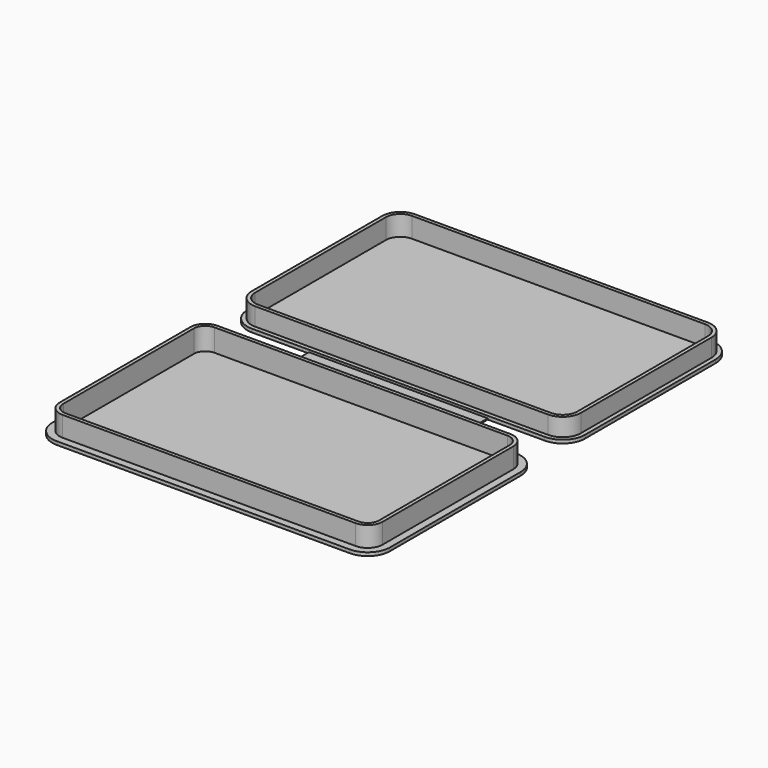
from build123d import *

# Parameters (mm, degrees)
F1_DEPTH = 1.5
F2_R     = 10
F6_DEPTH = 8
F7_DEPTH = 1
F8_W     = 80
F8_H     = 16
F9_DEPTH = 1


with BuildPart() as f1:
    # F0 (on Top) → F1 (new body)
    with BuildSketch(Plane.XY):
        Polygon((40, 0), (-40, 0), (-40, -8), (-75.5, -8), (-75.5, -101), (75.5, -101), (75.5, -8), (40, -8), align=None)
    extrude(amount=F1_DEPTH)

    # F2
    f2_edges = [f1.edges().sort_by_distance(p)[0] for p in [
        (-75.5, -8, 0.75),
        (-75.5, -101, 0.75),
        (75.5, -101, 0.75),
        (75.5, -8, 0.75),
    ]]
    fillet(f2_edges, radius=F2_R)

    # F3: F1 across face


with BuildPart() as f1_1:
    add(f1.part)
    add(f1.part.mirror(Plane(origin=(0, 0, 0.75), x_dir=(-1, 0, 0), z_dir=(0, 1, 0))))

    # F5 (on face) → F6 (join)
    with BuildSketch(Plane.XY.offset(1.5)):
        with BuildLine():
            Line((65.5, -11.3), (40, -11.3))
            Line((40, -11.3), (-40, -11.3))
            Line((-40, -11.3), (-65.5, -11.3))
            ThreePointArc((-65.5, -11.3), (-70.2376154339, -13.2623845661), (-72.2, -18))
            Line((-72.2, -18), (-72.2, -91))
            ThreePointArc((-72.2, -91), (-70.2376154339, -95.7376154339), (-65.5, -97.7))
            Line((-65.5, -97.7), (65.5, -97.7))
            ThreePointArc((65.5, -97.7), (70.2376154339, -95.7376154339), (72.2, -91))
            Line((72.2, -91), (72.2, -18))
            ThreePointArc((72.2, -18), (70.2376154339, -13.2623845661), (65.5, -11.3))
        make_face()
        with BuildLine():
            Line((-70.6, -91), (-70.6, -18))
            ThreePointArc((-70.6, -18), (-69.1062445841, -14.3937554159), (-65.5, -12.9))
            Line((-65.5, -12.9), (-40, -12.9))
            Line((-40, -12.9), (40, -12.9))
            Line((40, -12.9), (65.5, -12.9))
            ThreePointArc((65.5, -12.9), (69.1062445841, -14.3937554159), (70.6, -18))
            Line((70.6, -18), (70.6, -91))
            ThreePointArc((70.6, -91), (69.1062445841, -94.6062445841), (65.5, -96.1))
            Line((65.5, -96.1), (-65.5, -96.1))
            ThreePointArc((-65.5, -96.1), (-69.1062445841, -94.6062445841), (-70.6, -91))
        make_face(mode=Mode.SUBTRACT)
        with BuildLine():
            ThreePointArc((-73.6, 18), (-71.2275649276, 12.2724350724), (-65.5, 9.9))
            Line((-65.5, 9.9), (-40, 9.9))
            Line((-40, 9.9), (40, 9.9))
            Line((40, 9.9), (65.5, 9.9))
            ThreePointArc((65.5, 9.9), (71.2275649276, 12.2724350724), (73.6, 18))
            Line((73.6, 18), (73.6, 91))
            ThreePointArc((73.6, 91), (71.2275649276, 96.7275649276), (65.5, 99.1))
            Line((65.5, 99.1), (-65.5, 99.1))
            ThreePointArc((-65.5, 99.1), (-71.2275649276, 96.7275649276), (-73.6, 91))
            Line((-73.6, 91), (-73.6, 18))
        make_face()
        with BuildLine():
            Line((-72, 18), (-72, 91))
            ThreePointArc((-72, 91), (-70.0961940777, 95.5961940777), (-65.5, 97.5))
            Line((-65.5, 97.5), (65.5, 97.5))
            ThreePointArc((65.5, 97.5), (70.0961940777, 95.5961940777), (72, 91))
            Line((72, 91), (72, 18))
            ThreePointArc((72, 18), (70.0961940777, 13.4038059223), (65.5, 11.5))
            Line((65.5, 11.5), (40, 11.5))
            Line((40, 11.5), (-40, 11.5))
            Line((-40, 11.5), (-65.5, 11.5))
            ThreePointArc((-65.5, 11.5), (-70.0961940777, 13.4038059223), (-72, 18))
        make_face(mode=Mode.SUBTRACT)
    extrude(amount=F6_DEPTH)

    # F7 (add): a face of the model
    f7_faces = [f1_1.faces().sort_by_distance(p)[0] for p in [
        (0, -11.4682745376, 9.5),
    ]]
    extrude(f7_faces, amount=F7_DEPTH)

    # F8 (on face) → F9 (cut, through all)
    with BuildSketch(Plane.XY.offset(1.5)):
        with BuildLine():
            Line((65.5, 97.5), (-65.5, 97.5))
            ThreePointArc((-65.5, 97.5), (-70.0961940777, 95.5961940777), (-72, 91))
            Line((-72, 91), (-72, 18))
            ThreePointArc((-72, 18), (-70.0961940777, 13.4038059223), (-65.5, 11.5))
            Line((-65.5, 11.5), (65.5, 11.5))
            ThreePointArc((65.5, 11.5), (70.0961940777, 13.4038059223), (72, 18))
            Line((72, 18), (72, 91))
            ThreePointArc((72, 91), (70.0961940777, 95.5961940777), (65.5, 97.5))
        make_face()
        Rectangle(F8_W, F8_H)
        with BuildLine():
            Line((70.6, -91), (70.6, -18))
            ThreePointArc((70.6, -18), (69.1062445841, -14.3937554159), (65.5, -12.9))
            Line((65.5, -12.9), (-65.5, -12.9))
            ThreePointArc((-65.5, -12.9), (-69.1062445841, -14.3937554159), (-70.6, -18))
            Line((-70.6, -18), (-70.6, -91))
            ThreePointArc((-70.6, -91), (-69.1062445841, -94.6062445841), (-65.5, -96.1))
            Line((-65.5, -96.1), (65.5, -96.1))
            ThreePointArc((65.5, -96.1), (69.1062445841, -94.6062445841), (70.6, -91))
        make_face()
    extrude(amount=-F9_DEPTH, mode=Mode.SUBTRACT)


solid = f1_1.part
